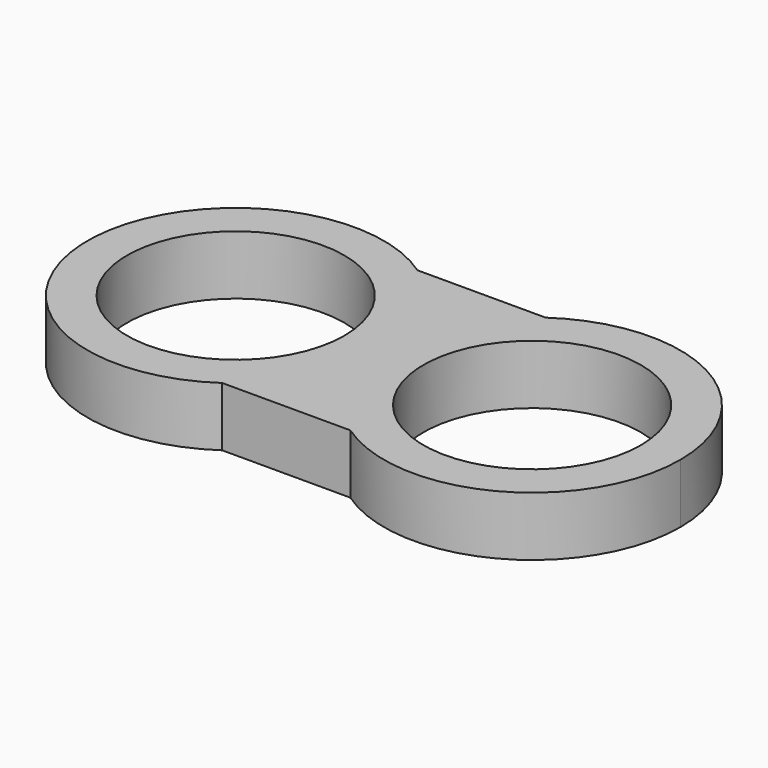
from build123d import *

# Parameters (mm, degrees)
F0_R     = 5.5
F1_DEPTH = 3


with BuildPart() as f1:
    # F0 (on Top) → F1 (new body)
    with BuildSketch(Plane.XY):
        with BuildLine():
            ThreePointArc((-0.99853, 0.499257), (-1.858995, 3.987319), (-4.24295, 6.675019))
            ThreePointArc((-4.24295, 6.675019), (-15.99853, 0.499257), (-4.24295, -5.676504))
            ThreePointArc((-4.24295, -5.676504), (-1.858995, -2.988804), (-0.99853, 0.499257))
        make_face()
        with Locations((-8.49853, 0.499257)):
            Circle(F0_R, mode=Mode.SUBTRACT)
        with BuildLine():
            Line((2.245889, 6.675019), (-4.24295, 6.675019))
            ThreePointArc((-4.24295, 6.675019), (-1.858995, 3.987319), (-0.99853, 0.499257))
            ThreePointArc((-0.99853, 0.499257), (-0.138066, 3.987319), (2.245889, 6.675019))
        make_face()
        with BuildLine():
            ThreePointArc((2.245889, -5.676504), (-0.138066, -2.988804), (-0.99853, 0.499257))
            ThreePointArc((-0.99853, 0.499257), (-1.858995, -2.988804), (-4.24295, -5.676504))
            Line((-4.24295, -5.676504), (2.245889, -5.676504))
        make_face()
        with BuildLine():
            ThreePointArc((14.00147, 0.499257), (9.989531, 7.138793), (2.245889, 6.675019))
            ThreePointArc((2.245889, 6.675019), (-0.138066, 3.987319), (-0.99853, 0.499257))
            ThreePointArc((-0.99853, 0.499257), (-0.138066, -2.988804), (2.245889, -5.676504))
            ThreePointArc((2.245889, -5.676504), (9.989531, -6.140278), (14.00147, 0.499257))
        make_face()
        with Locations((6.50147, 0.499257)):
            Circle(F0_R, mode=Mode.SUBTRACT)
    extrude(amount=F1_DEPTH)


solid = f1.part
